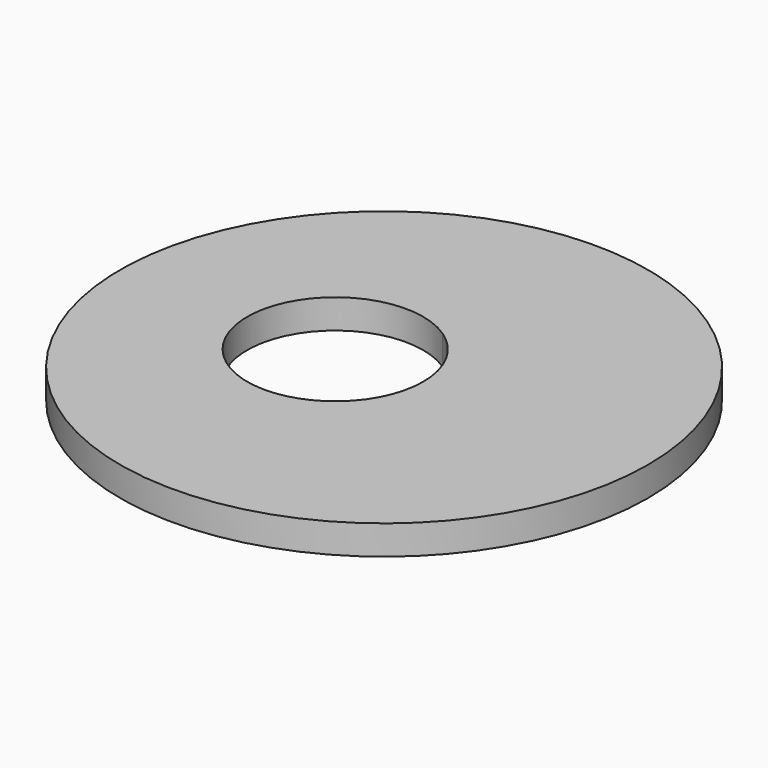
from build123d import *

# Parameters (mm, degrees)
F0_R     = 13.5
F1_DEPTH = 1.5


with BuildPart() as f1:
    # F0 (on Top) → F1 (new body)
    with BuildSketch(Plane.XY):
        Circle(F0_R)
        with BuildLine():
            ThreePointArc((-0.0125, 3.749979), (2.647227, 2.656066), (3.75, 0))
            ThreePointArc((3.75, 0), (2.647227, -2.656066), (-0.0125, -3.749979))
            ThreePointArc((-0.0125, -3.749979), (-7, 0), (-0.0125, 3.749979))
        make_face(mode=Mode.SUBTRACT)
        with BuildLine():
            ThreePointArc((-0.0125, -3.749979), (2.647227, -2.656066), (3.75, 0))
            ThreePointArc((3.75, 0), (2.647227, 2.656066), (-0.0125, 3.749979))
            ThreePointArc((-0.0125, 3.749979), (1.465082, 2.127939), (2, 0))
            ThreePointArc((2, 0), (1.465082, -2.127939), (-0.0125, -3.749979))
        make_face()
    extrude(amount=F1_DEPTH)


solid = f1.part
